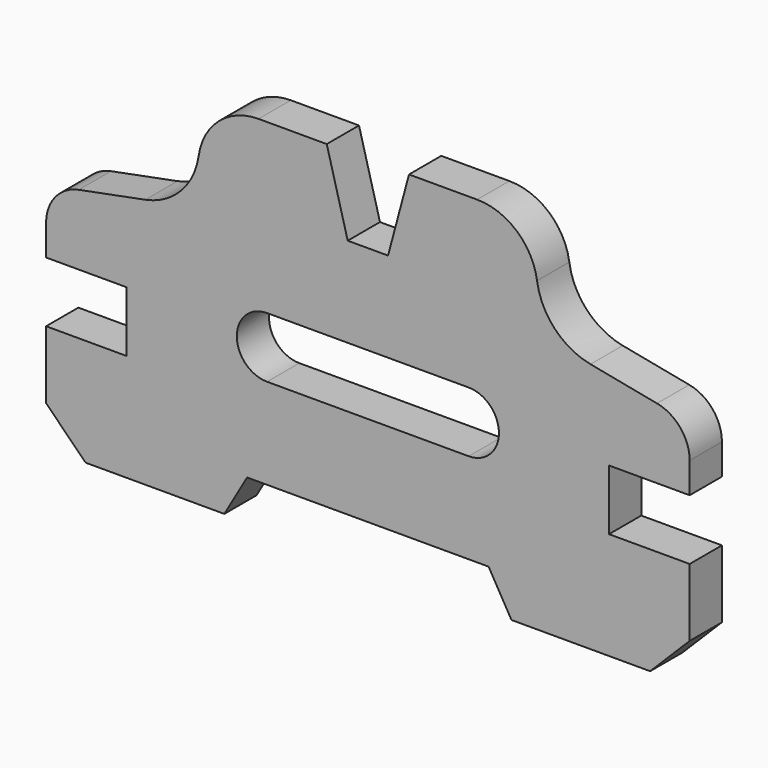
from build123d import *

# Parameters (mm, degrees)
F1_DEPTH = 6.35
F2_SIZE  = 12.446


with BuildPart() as f1:
    # F0 (on Front) → F1 (new body, symmetric)
    with BuildSketch(Plane.XZ):
        with BuildLine():
            Line((6.35, 37.846), (0, 37.846))
            Line((0, 37.846), (-6.35, 37.846))
            Line((-6.35, 37.846), (-12.951732, 62.484))
            Line((-12.951732, 62.484), (-34.425497, 62.484))
            ThreePointArc((-34.425497, 62.484), (-46.905351, 57.826906), (-53.283383, 46.132634))
            ThreePointArc((-53.283383, 46.132634), (-58.870272, 34.610577), (-70.104, 28.464482))
            Line((-70.104, 28.464482), (-91.060435, 24.40638))
            ThreePointArc((-91.060435, 24.40638), (-98.442768, 20.019667), (-101.346, 11.938))
            Line((-101.346, 11.938), (-101.346, 2.286))
            Line((-101.346, 2.286), (-75.946, 2.286))
            Line((-75.946, 2.286), (-75.946, -16.764))
            Line((-75.946, -16.764), (-101.346, -16.764))
            Line((-101.346, -16.764), (-101.346, -50.546))
            Line((-101.346, -50.546), (-45.212, -50.546))
            Line((-45.212, -50.546), (-38.026299, -38.1))
            Line((-38.026299, -38.1), (0, -38.1))
            Line((0, -38.1), (38.026299, -38.1))
            Line((38.026299, -38.1), (45.212, -50.546))
            Line((45.212, -50.546), (101.346, -50.546))
            Line((101.346, -50.546), (101.346, -16.764))
            Line((101.346, -16.764), (75.946, -16.764))
            Line((75.946, -16.764), (75.946, 2.286))
            Line((75.946, 2.286), (101.346, 2.286))
            Line((101.346, 2.286), (101.346, 11.938))
            ThreePointArc((101.346, 11.938), (98.442768, 20.019667), (91.060435, 24.40638))
            Line((91.060435, 24.40638), (70.104, 28.464482))
            ThreePointArc((70.104, 28.464482), (58.870272, 34.610577), (53.283383, 46.132634))
            ThreePointArc((53.283383, 46.132634), (46.905351, 57.826906), (34.425497, 62.484))
            Line((34.425497, 62.484), (12.951732, 62.484))
            Line((12.951732, 62.484), (6.35, 37.846))
        make_face()
        with BuildLine():
            Line((-31.75, 9.525), (31.75, 9.525))
            ThreePointArc((31.75, 9.525), (41.275, 0), (31.75, -9.525))
            Line((31.75, -9.525), (-31.75, -9.525))
            ThreePointArc((-31.75, -9.525), (-41.275, 0), (-31.75, 9.525))
        make_face(mode=Mode.SUBTRACT)
    extrude(amount=F1_DEPTH, both=True)

    # F2
    f2_edges = [f1.edges().sort_by_distance(p)[0] for p in [
        (-101.346, 0, -50.546),
        (101.346, 0, -50.546),
    ]]
    chamfer(f2_edges, length=F2_SIZE)


solid = f1.part
